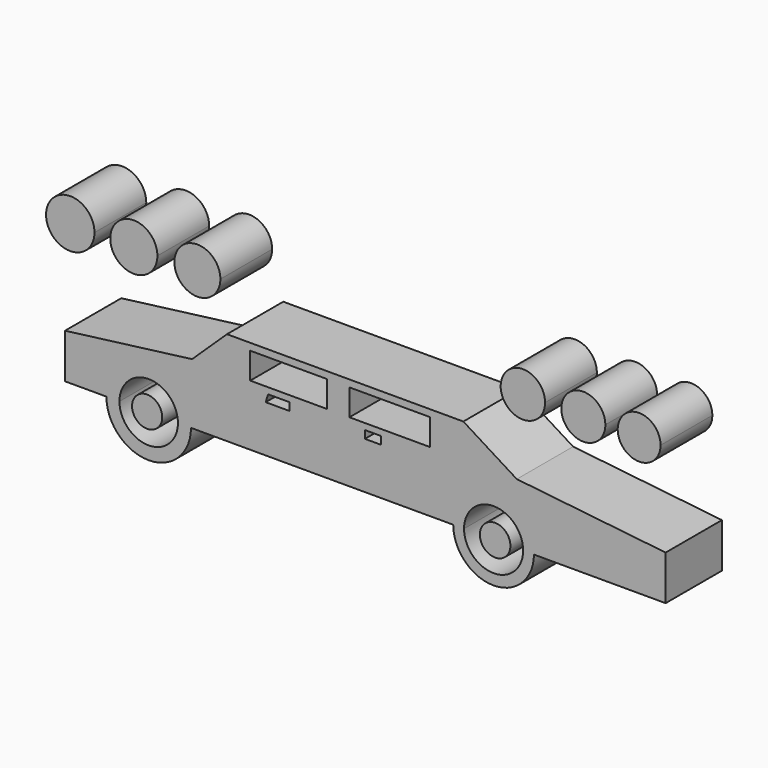
from build123d import *

# Parameters (mm, degrees)
F0_W     = 27.6957710739
F0_H     = 9.5116812736
F0_W_2   = 29.0945479646
F1_DEPTH = 25.4
F2_R     = 5.4480518547
F3_DEPTH = 25.4
F2_R_2   = 5.5194090988
F5_DEPTH = 23.368


with BuildPart() as f1:
    # F0 (on Front) → F1 (new body)
    with BuildSketch(Plane.XZ):
        with BuildLine():
            Line((-52.8583483225, 0), (0, 0))
            Line((0, 0), (41.8039302109, 0))
            ThreePointArc((41.8039302109, 0), (56.3706867397, 14.5667565288), (70.9374432684, 0))
            Line((70.9374432684, 0), (118.4763461351, 0))
            Line((118.4763461351, 0), (118.4763461351, 16.0859264433))
            Line((118.4763461351, 16.0859264433), (64.7633373737, 21.9607856125))
            Line((64.7633373737, 21.9607856125), (45.4602278769, 33.9902602136))
            Line((45.4602278769, 33.9902602136), (-39.8651212454, 33.9902602136))
            Line((-39.8651212454, 33.9902602136), (-52.454110235, 21.9607856125))
            Line((-52.454110235, 21.9607856125), (-98.3339697123, 16.0859264433))
            Line((-98.3339697123, 16.0859264433), (-98.3339697123, 0))
            Line((-98.3339697123, 0), (-83.3824618334, 0))
            ThreePointArc((-83.3824618334, 0), (-68.1204050779, 15.2620567555), (-52.8583483225, 0))
        make_face()
        Polygon((-21.1215214804, 16.9251933694), (-25.8773602545, 16.9251933694), (-25.0380951911, 19.7227448225), (-21.1215214804, 19.7227448225), (-17.2049477696, 19.7227448225), (-17.2049477696, 16.9251933694), align=None, mode=Mode.SUBTRACT)
        with Locations((-17.6245813491, 26.7166262493)):
            Rectangle(F0_W, F0_H, mode=Mode.SUBTRACT)
        Polygon((12.8687415272, 16.9251933694), (9.9313110113, 16.9251933694), (9.9313110113, 19.7227448225), (12.8687415272, 19.7227448225), (15.8061720431, 19.7227448225), (15.8061720431, 16.9251933694), align=None, mode=Mode.SUBTRACT)
        with Locations((18.8834811561, 26.7166262493)):
            Rectangle(F0_W_2, F0_H, mode=Mode.SUBTRACT)
        with BuildLine():
            ThreePointArc((-83.3824618334, 0), (-68.1204050779, -15.2620567555), (-52.8583483225, 0))
            Line((-52.8583483225, 0), (-57.5663627858, 0))
            ThreePointArc((-57.5663627858, 0), (-68.1204050779, -10.5540422922), (-78.6744473701, 0))
            Line((-78.6744473701, 0), (-83.3824618334, 0))
        make_face()
        with BuildLine():
            Line((-57.5663627858, 0), (-52.8583483225, 0))
            ThreePointArc((-52.8583483225, 0), (-68.1204050779, 15.2620567555), (-83.3824618334, 0))
            Line((-83.3824618334, 0), (-78.6744473701, 0))
            ThreePointArc((-78.6744473701, 0), (-68.1204050779, 10.5540422922), (-57.5663627858, 0))
        make_face()
        with BuildLine():
            ThreePointArc((70.9374432684, 0), (56.3706867397, 14.5667565288), (41.8039302109, 0))
            Line((41.8039302109, 0), (45.7096665583, 0))
            ThreePointArc((45.7096665583, 0), (56.3706867397, 10.6610201813), (67.031706921, 0))
            Line((67.031706921, 0), (70.9374432684, 0))
        make_face()
        with BuildLine():
            Line((45.7096665583, 0), (41.8039302109, 0))
            ThreePointArc((41.8039302109, 0), (56.3706867397, -14.5667565288), (70.9374432684, 0))
            Line((70.9374432684, 0), (67.031706921, 0))
            ThreePointArc((67.031706921, 0), (56.3706867397, -10.6610201813), (45.7096665583, 0))
        make_face()
    extrude(amount=F1_DEPTH)


with BuildPart() as f3:
    # F2 (on Front) → F3 (new body)
    with BuildSketch(Plane.XZ):
        with Locations((-68.6799138784, 0)):
            Circle(F2_R)
    extrude(amount=F3_DEPTH)


with BuildPart() as f3b:
    # F2 (on Front) → F3, piece 2 (new body)
    with BuildSketch(Plane.XZ):
        with Locations((56.9301955402, 0)):
            Circle(F2_R_2)
    extrude(amount=F3_DEPTH)


with BuildPart() as f5:
    # F4 (on Front) → F5 (new body)
    with BuildSketch(Plane.XZ):
        with BuildLine():
            ThreePointArc((65.3228461742, 40.2419242431), (70.9909116632, 42.589713841), (73.3387012612, 48.25777933))
            ThreePointArc((73.3387012612, 48.25777933), (59.6547806852, 53.925844819), (65.3228461742, 40.2419242431))
        make_face()
    extrude(amount=F5_DEPTH)


with BuildPart() as f5b:
    # F4 (on Front) → F5, piece 2 (new body)
    with BuildSketch(Plane.XZ):
        with BuildLine():
            ThreePointArc((-52.1743558347, 41.0732052454), (-46.3028272114, 43.505272033), (-43.8707604238, 49.3768006563))
            ThreePointArc((-43.8707604238, 49.3768006563), (-58.045884458, 55.2483292796), (-52.1743558347, 41.0732052454))
        make_face()
    extrude(amount=F5_DEPTH)


with BuildPart() as f5c:
    # F4 (on Front) → F5, piece 3 (new body)
    with BuildSketch(Plane.XZ):
        with BuildLine():
            ThreePointArc((-75.1142799854, 40.8683843656), (-69.0979211291, 43.3604418), (-66.6058636947, 49.3768006563))
            ThreePointArc((-66.6058636947, 49.3768006563), (-81.1306388418, 55.3931595127), (-75.1142799854, 40.8683843656))
        make_face()
    extrude(amount=F5_DEPTH)


with BuildPart() as f5d:
    # F4 (on Front) → F5, piece 4 (new body)
    with BuildSketch(Plane.XZ):
        with BuildLine():
            ThreePointArc((-98.054215312, 40.6369699519), (-91.8742217545, 43.1968070988), (-89.3143846076, 49.3768006563))
            ThreePointArc((-89.3143846076, 49.3768006563), (-104.2342088695, 55.5567942138), (-98.054215312, 40.6369699519))
        make_face()
    extrude(amount=F5_DEPTH)


with BuildPart() as f5e:
    # F4 (on Front) → F5, piece 5 (new body)
    with BuildSketch(Plane.XZ):
        with BuildLine():
            ThreePointArc((87.1437564492, 40.3056413085), (92.7667671692, 42.6347686101), (95.0958944708, 48.25777933))
            ThreePointArc((95.0958944708, 48.25777933), (81.5207457293, 53.88079005), (87.1437564492, 40.3056413085))
        make_face()
    extrude(amount=F5_DEPTH)


with BuildPart() as f5f:
    # F4 (on Front) → F5, piece 6 (new body)
    with BuildSketch(Plane.XZ):
        with BuildLine():
            ThreePointArc((107.2861403227, 40.5201339279), (112.7574818569, 42.7864377958), (115.0237857248, 48.25777933))
            ThreePointArc((115.0237857248, 48.25777933), (101.8147987884, 53.7291208643), (107.2861403227, 40.5201339279))
        make_face()
    extrude(amount=F5_DEPTH)


solid = Compound([f1.part, f3.part, f3b.part, f5.part, f5b.part, f5c.part, f5d.part, f5e.part, f5f.part])
